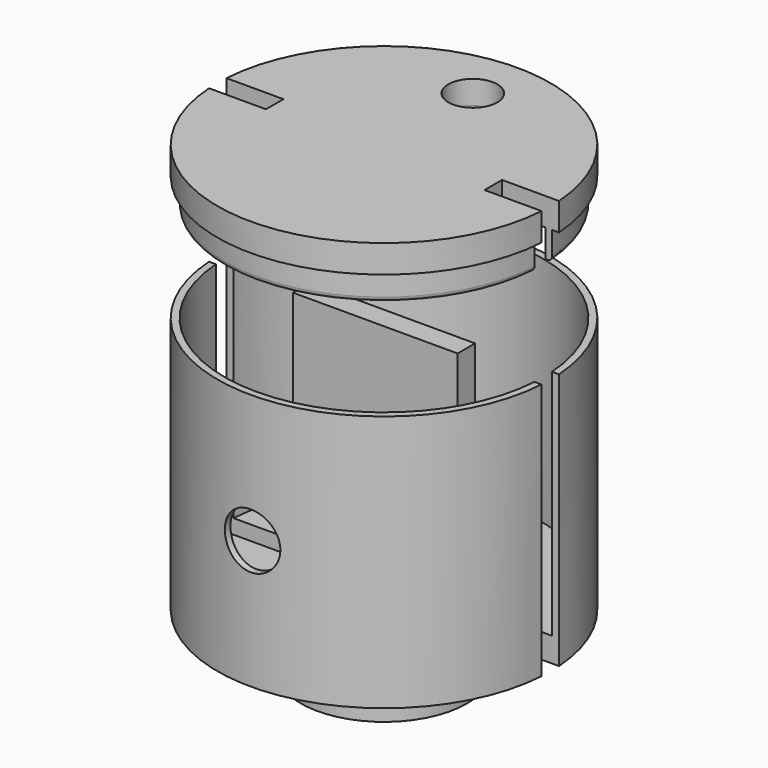
from build123d import *

# Parameters (mm, degrees)
SKETCH_R        = 19
PAD_DEPTH       = 12.7
SKETCH001_R     = 38.1
PAD001_DEPTH    = 58.738
SKETCH005_R     = 36.5125
POCKET_DEPTH    = 53.15
SKETCH006_W     = 25.4
SKETCH006_H     = 5
POCKET001_DEPTH = 60
SKETCH007_W     = 37.669616
SKETCH007_H     = 5
PAD002_DEPTH    = 53.15
SKETCH008_R     = 6.35
POCKET002_DEPTH = 50
SKETCH009_R     = 38.1
PAD003_DEPTH    = 6.35
SKETCH010_R     = 36.5
SKETCH010_R_2   = 35
PAD004_DEPTH    = 6.35
SKETCH011_W     = 25
SKETCH011_H     = 5
POCKET003_DEPTH = 12.7
SKETCH012_R     = 5.6
POCKET004_DEPTH = 6.35
FILLET_R        = 1
FILLET001_R     = 1


with BuildPart() as obj1:
    # Sketch → Pad (new body)
    with BuildSketch(Plane.XY):
        Circle(SKETCH_R)
    extrude(amount=PAD_DEPTH)

    # Sketch001 (on Face3 of Pad) → Pad001 (join)
    with BuildSketch(Plane.XY.offset(12.7)):
        Circle(SKETCH001_R)
    extrude(amount=PAD001_DEPTH)

    # Sketch005 (on Face3 of Pad001) → Pocket (cut)
    with BuildSketch(Plane.XY.offset(71.438)):
        Circle(SKETCH005_R)
    extrude(amount=-POCKET_DEPTH, mode=Mode.SUBTRACT)

    # Sketch006 (on Face2 of Pocket) → Pocket001 (cut)
    with BuildSketch(Plane(origin=(0, 0, 12.7), x_dir=(1, 0, 0), z_dir=(0, 0, -1))):
        with Locations((31.534808, 0)):
            Rectangle(SKETCH006_W, SKETCH006_H)
        with Locations((-31.534808, 0)):
            Rectangle(SKETCH006_W, SKETCH006_H)
    extrude(amount=-POCKET001_DEPTH, mode=Mode.SUBTRACT)

    # Sketch007 (on Face8 of Pocket001) → Pad002 (join)
    with BuildSketch(Plane.XY.offset(18.288)):
        Rectangle(SKETCH007_W, SKETCH007_H)
    extrude(amount=PAD002_DEPTH)

    # Sketch008 (on DatumPlane) → Pocket002 (cut)
    with BuildSketch(Plane(origin=(0, -25.258836, 42.069), x_dir=(0, 0, 1), z_dir=(0, 1, 0))):
        Circle(SKETCH008_R)
    extrude(amount=-POCKET002_DEPTH, mode=Mode.SUBTRACT)


with BuildPart() as obj2:
    # Sketch009 → Pad003 (new body)
    with BuildSketch(Plane.XY):
        Circle(SKETCH009_R)
    extrude(amount=PAD003_DEPTH)

    # Sketch010 (on Face2 of Pad003) → Pad004 (join)
    with BuildSketch(Plane(origin=(0, 0, 0), x_dir=(1, 0, 0), z_dir=(0, 0, -1))):
        Circle(SKETCH010_R)
        Circle(SKETCH010_R_2, mode=Mode.SUBTRACT)
    extrude(amount=PAD004_DEPTH)

    # Sketch011 (on Face3 of Pad004) → Pocket003 (cut)
    with BuildSketch(Plane.XY.offset(6.35)):
        with Locations((-37.5, 0)):
            Rectangle(SKETCH011_W, SKETCH011_H)
        with Locations((37.5, 0)):
            Rectangle(SKETCH011_W, SKETCH011_H)
    extrude(amount=-POCKET003_DEPTH, mode=Mode.SUBTRACT)

    # Sketch012 (on Face4 of Pocket003) → Pocket004 (cut)
    with BuildSketch(Plane.XY.offset(6.35)):
        with Locations((0, 25.4)):
            Circle(SKETCH012_R)
    extrude(amount=-POCKET004_DEPTH, mode=Mode.SUBTRACT)

    # Fillet
    fillet_edges = [obj2.edges().sort_by_distance(p)[0] for p in [
        (0, 36.5, -6.35),
        (0, -36.5, -6.35),
    ]]
    fillet(fillet_edges, radius=FILLET_R)

    # Fillet001
    fillet001_edges = [obj2.edges().sort_by_distance(p)[0] for p in [
        (-5.6, 25.4, 0),
    ]]
    fillet(fillet001_edges, radius=FILLET001_R)


with BuildPart() as obj2_1:
    # Body001 placement: moved
    add(obj2.part.moved(Location((0, 0, 100))))


solid = Compound([obj1.part, obj2_1.part])
